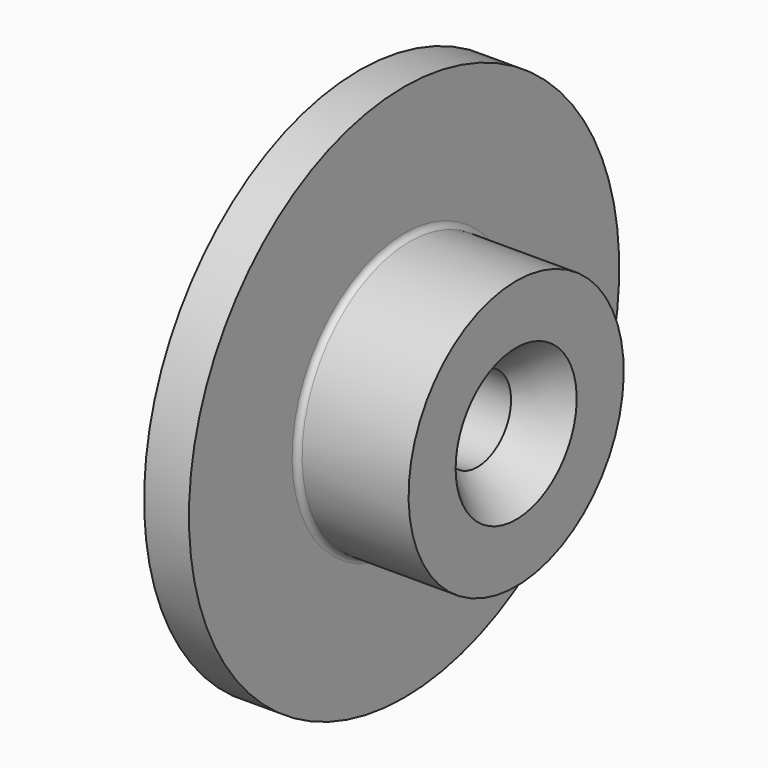
from build123d import *

# Parameters (mm, degrees)
F2_R           = 0.79375
F4_D           = 11.90498
F4_CSINK_D     = 21.4376
F4_CSINK_ANGLE = 82


with BuildPart() as f1:
    # F0 (on Front) → F1 (revolve)
    with BuildSketch(Plane.XZ):
        Polygon((6.35, 38.1), (0, 38.1), (0, 0), (22.225, 0), (22.225, 19.05), (6.35, 19.05), align=None)
    revolve(axis=Axis((11.1125, 0, 0), (-1, 0, 0)))

    # F2
    f2_edges = [f1.edges().sort_by_distance(p)[0] for p in [
        (6.35, 0, -19.05),
    ]]
    fillet(f2_edges, radius=F2_R)

    # F4 (through all)
    with Locations(Plane.YZ.offset(22.225)):
        with Locations((0, 0)):
            CounterSinkHole(F4_D / 2, F4_CSINK_D / 2, counter_sink_angle=F4_CSINK_ANGLE)


solid = f1.part
